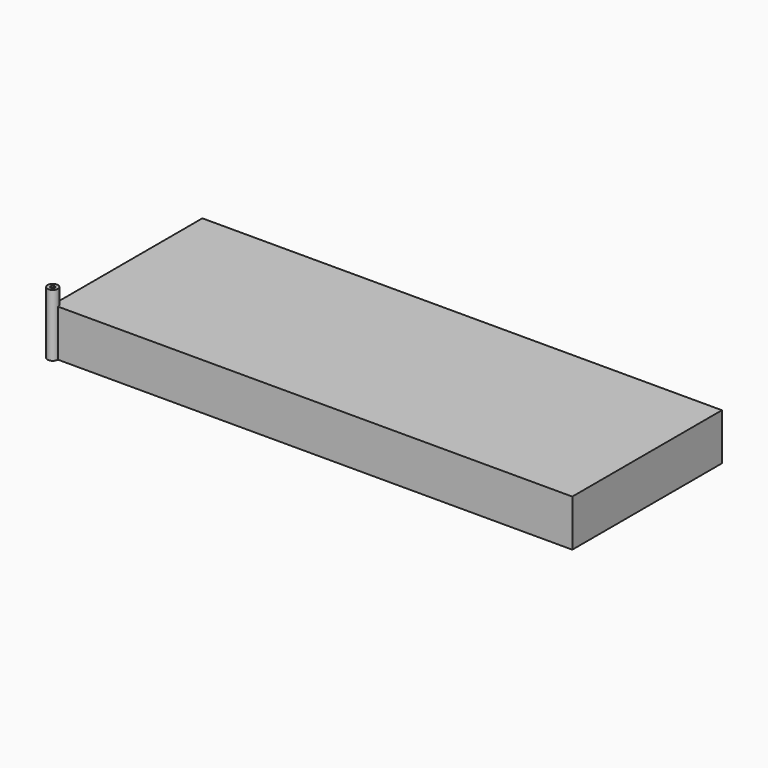
from build123d import *

# Parameters (mm, degrees)
BOX001_W     = 490
BOX001_H     = 170
BOX001_DEPTH = 35
BOX_W        = 500
BOX_H        = 180
BOX_DEPTH    = 45
TUBE_R       = 5
TUBE_R_2     = 2
TUBE_DEPTH   = 60


with BuildPart() as cube001:
    # Box001 → Box001 (new body)
    with BuildSketch(Plane(origin=(5, 5, 5), x_dir=(1, 0, 0), z_dir=(0, 0, 1))):
        with Locations((245, 85)):
            Rectangle(BOX001_W, BOX001_H)
    extrude(amount=BOX001_DEPTH)


with BuildPart() as cut:
    # Box → Box (new body)
    with BuildSketch(Plane.XY):
        with Locations((250, 90)):
            Rectangle(BOX_W, BOX_H)
    extrude(amount=BOX_DEPTH)

    # Cut: cut Cube001
    add(cube001.part, mode=Mode.SUBTRACT)


with BuildPart() as tube:
    # Tube → Tube (new body)
    with BuildSketch(Plane.XY):
        Circle(TUBE_R)
        Circle(TUBE_R_2, mode=Mode.SUBTRACT)
    extrude(amount=TUBE_DEPTH)


solid = Compound([cut.part, tube.part])
